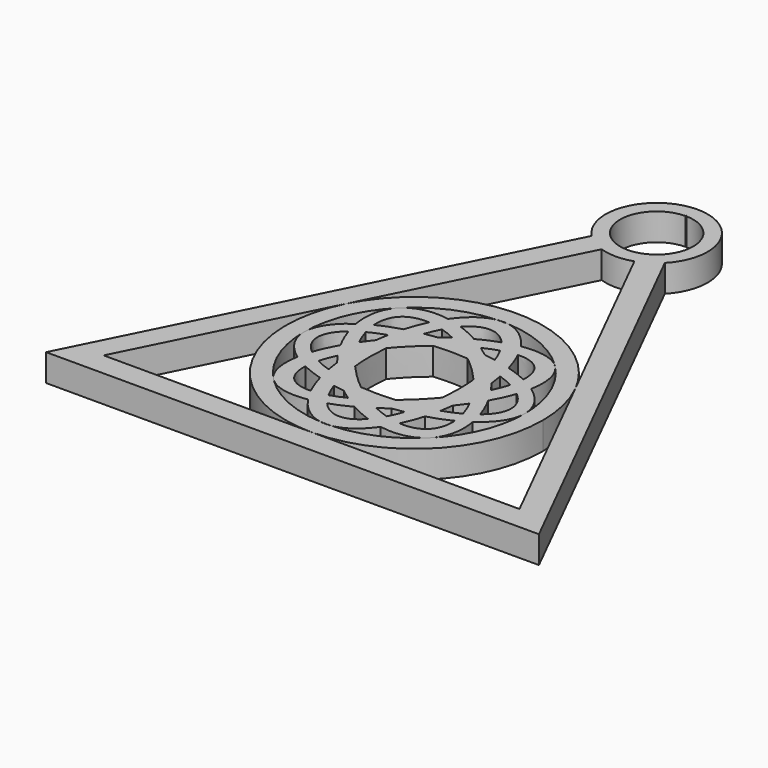
from build123d import *

# Parameters (mm, degrees)
F1_DEPTH = 8


with BuildPart() as f1:
    # F0 (on Top) → F1 (new body)
    with BuildSketch(Plane.XY):
        with BuildLine():
            Line((-72.5, -72.5), (72.5, -72.5))
            Line((72.5, -72.5), (10.7613115327, 50.9773769345))
            ThreePointArc((10.7613115327, 50.9773769345), (0, 76.4269785583), (-10.7613115327, 50.9773769345))
            Line((-10.7613115327, 50.9773769345), (-72.5, -72.5))
        make_face()
        with BuildLine():
            Line((-33.8160232688, -10.7845223802), (-4.8136033975, 47.2203173625))
            ThreePointArc((-4.8136033975, 47.2203173625), (0, 46.4269785583), (4.8136033975, 47.2203173625))
            Line((4.8136033975, 47.2203173625), (28.180019991, 0.4874841754))
            Line((28.180019991, 0.4874841754), (33.8160241852, -10.7845242129))
            Line((33.8160241852, -10.7845242129), (61.1737620788, -65.5))
            Line((61.1737620788, -65.5), (7.24e-08, -65.5))
            Line((7.24e-08, -65.5), (-61.1737620788, -65.5))
            Line((-61.1737620788, -65.5), (-33.8160232688, -10.7845223802))
        make_face(mode=Mode.SUBTRACT)
        with BuildLine():
            Line((-0.1621220008, 72.1757559984), (0, 72.5))
            Line((0, 72.5), (0.1621220008, 72.1757559984))
            ThreePointArc((0.1621220008, 72.1757559984), (7.6585021874, 68.9708399201), (10.75, 61.4269785583))
            ThreePointArc((10.75, 61.4269785583), (-7.5438613618, 53.7684763709), (-0.1621220008, 72.1757559984))
        make_face(mode=Mode.SUBTRACT)
    extrude(amount=F1_DEPTH)


with BuildPart() as f1b:
    # F0 (on Top) → F1, piece 2 (new body)
    with BuildSketch(Plane.XY):
        with BuildLine():
            ThreePointArc((26.7339143042, -0.9586215114), (-6.0560836204, 9.6267380149), (-33.8160232688, -10.7845223802))
            ThreePointArc((-33.8160232688, -10.7845223802), (-32.1609503746, -47.5690953533), (7.24e-08, -65.5))
            ThreePointArc((7.24e-08, -65.5), (26.7339143298, -54.4264500943), (37.8074641844, -27.6925358156))
            ThreePointArc((37.8074641844, -27.6925358156), (36.7960763621, -19.006160714), (33.8160241852, -10.7845242129))
            ThreePointArc((33.8160241852, -10.7845242129), (30.671009989, -5.5861228477), (26.7339143042, -0.9586215114))
        make_face()
        with BuildLine():
            ThreePointArc((23.2992361196, -5.0343011924), (30.1120837363, -15.4650089579), (32.5, -27.6925358156))
            ThreePointArc((32.5, -27.6925358156), (30.0130588161, -40.1611484289), (22.9328430461, -50.7215329675))
            ThreePointArc((22.9328430461, -50.7215329675), (13.131885806, -57.4213698859), (1.5786025435, -60.1541749303))
            add(Edge.make_bspline(
                [(-1.5786025435, -60.1541749303), (0, -60.4204854346), (1.5786025435, -60.1541749303)],
                knots=[3.0512640082, 3.0512640082, 3.0512640082, 3.231921299, 3.231921299, 3.231921299], degree=2, weights=[1, 0.9959231411, 1]))
            ThreePointArc((-1.5786025435, -60.1541749303), (-13.1629755574, -57.4076174153), (-22.9809703886, -50.6735062042))
            ThreePointArc((-22.9809703886, -50.6735062042), (-23.1406660548, -50.5126930136), (-23.299236431, -50.3507701186))
            ThreePointArc((-23.299236431, -50.3507701186), (-30.1120838522, -39.9200623881), (-32.5, -27.6925356466))
            ThreePointArc((-32.5, -27.6925356466), (-30.0130588954, -15.2239233932), (-22.9328434588, -4.6635390747))
            ThreePointArc((-22.9328434588, -4.6635390747), (-13.1318860724, 2.036298137), (-1.5786025435, 4.769103299))
            add(Edge.make_bspline(
                [(1.5786025435, 4.769103299), (0, 5.0354138033), (-1.5786025435, 4.769103299)],
                knots=[6.1928566618, 6.1928566618, 6.1928566618, 6.3735139526, 6.3735139526, 6.3735139526], degree=2, weights=[1, 0.9959231411, 1]))
            ThreePointArc((1.5786025435, 4.769103299), (13.1629755574, 2.022545784), (22.9809703886, -4.7115654271))
            ThreePointArc((22.9809703886, -4.7115654271), (23.140665898, -4.8723784587), (23.2992361196, -5.0343011924))
        make_face(mode=Mode.SUBTRACT)
    extrude(amount=F1_DEPTH)


with BuildPart() as f1c:
    # F0 (on Top) → F1, piece 3 (new body)
    with BuildSketch(Plane.XY):
        with BuildLine():
            add(Edge.make_bspline(
                [(25.7316529946, -38.3824828916), (32.5, -33.6587631525), (32.5, -27.6925358156)],
                knots=[5.6260463822, 5.6260463822, 5.6260463822, 6.2831853072, 6.2831853072, 6.2831853072], degree=2, weights=[1, 0.9465049311, 1]))
            add(Edge.make_bspline(
                [(32.5, -27.6925358156), (32.5, -21.8335775834), (25.9485362003, -17.155688667)],
                knots=[0, 0, 0, 0.6461356538, 0.6461356538, 0.6461356538], degree=2, weights=[1, 0.9482659169, 1]))
            add(Edge.make_bspline(
                [(25.9485362003, -17.155688667), (27.3839638028, -9.2345858445), (23.2992361196, -5.0343011924)],
                knots=[5.6370496533, 5.6370496533, 5.6370496533, 6.2831853058, 6.2831853058, 6.2831853058], degree=2, weights=[1, 0.9482659172, 1]))
            add(Edge.make_bspline(
                [(23.2992361196, -5.0343011924), (23.1412473682, -4.8718429383), (22.9754990985, -4.7170367171)],
                knots=[6.2831853058, 6.2831853058, 6.2831853058, 6.3090824057, 6.3090824057, 6.3090824057], degree=2, weights=[1, 0.9999161687, 1]))
            add(Edge.make_bspline(
                [(22.9754990985, -4.7170367171), (18.7521863759, -0.7725304805), (10.846723925, -2.1139940151)],
                knots=[0.0258970985, 0.0258970985, 0.0258970985, 0.6633041146, 0.6633041146, 0.6633041146], degree=2, weights=[1, 0.9496424532, 1]))
            add(Edge.make_bspline(
                [(10.846723925, -2.1139940151), (6.7622254546, 3.8946252758), (1.5786025435, 4.769103299)],
                knots=[5.6146811793, 5.6146811793, 5.6146811793, 6.1928566618, 6.1928566618, 6.1928566618], degree=2, weights=[1, 0.9585043392, 1]))
            ThreePointArc((1.5786025435, 4.769103299), (0, 4.8074641844), (-1.5786025435, 4.769103299))
            add(Edge.make_bspline(
                [(-1.5786025435, 4.769103299), (-6.6593333052, 3.9119831981), (-10.6968750279, -1.8960060522)],
                knots=[0.0903286454, 0.0903286454, 0.0903286454, 0.6576390359, 0.6576390359, 0.6576390359], degree=2, weights=[1, 0.9600388866, 1]))
            add(Edge.make_bspline(
                [(-10.6968750279, -1.8960060522), (-18.7385874663, -0.4867951742), (-22.9328434588, -4.6635390747)],
                knots=[5.6308648753, 5.6308648753, 5.6308648753, 6.2831853291, 6.2831853291, 6.2831853291], degree=2, weights=[1, 0.947279618, 1]))
            add(Edge.make_bspline(
                [(-22.9328434588, -4.6635390747), (-27.1604194894, -8.8734638936), (-25.7316529946, -17.0025887397)],
                knots=[2.2e-08, 2.2e-08, 2.2e-08, 0.657138925, 0.657138925, 0.657138925], degree=2, weights=[1, 0.9465049346, 1]))
            add(Edge.make_bspline(
                [(-25.7316529946, -17.0025887397), (-32.499999893, -21.7263084041), (-32.5, -27.6925356466)],
                knots=[2.4844537286, 2.4844537286, 2.4844537286, 3.1415926439, 3.1415926439, 3.1415926439], degree=2, weights=[1, 0.9465049326, 1]))
            add(Edge.make_bspline(
                [(-32.5, -27.6925356466), (-32.5000001051, -33.5514939728), (-25.9485362003, -38.2293829643)],
                knots=[3.1415926439, 3.1415926439, 3.1415926439, 3.7877283074, 3.7877283074, 3.7877283074], degree=2, weights=[1, 0.9482659154, 1]))
            add(Edge.make_bspline(
                [(-25.9485362003, -38.2293829643), (-27.3839637419, -46.150485451), (-23.299236431, -50.3507701186)],
                knots=[2.4954569998, 2.4954569998, 2.4954569998, 3.1415926266, 3.1415926266, 3.1415926266], degree=2, weights=[1, 0.9482659212, 1]))
            add(Edge.make_bspline(
                [(-23.299236431, -50.3507701186), (-23.1412475316, -50.5132285403), (-22.9754990985, -50.6680349141)],
                knots=[3.1415926266, 3.1415926266, 3.1415926266, 3.1674897521, 3.1674897521, 3.1674897521], degree=2, weights=[1, 0.9999161685, 1]))
            add(Edge.make_bspline(
                [(-22.9754990985, -50.6680349141), (-18.7521863759, -54.6125411508), (-10.846723925, -53.2710776162)],
                knots=[3.1674897521, 3.1674897521, 3.1674897521, 3.8048967682, 3.8048967682, 3.8048967682], degree=2, weights=[1, 0.9496424532, 1]))
            add(Edge.make_bspline(
                [(-10.846723925, -53.2710776162), (-6.7622254546, -59.2796969071), (-1.5786025435, -60.1541749303)],
                knots=[2.4730885257, 2.4730885257, 2.4730885257, 3.0512640082, 3.0512640082, 3.0512640082], degree=2, weights=[1, 0.9585043392, 1]))
            ThreePointArc((-1.5786025435, -60.1541749303), (0, -60.1925358156), (1.5786025435, -60.1541749303))
            add(Edge.make_bspline(
                [(1.5786025435, -60.1541749303), (6.6593333052, -59.2970548294), (10.6968750279, -53.489065579)],
                knots=[3.231921299, 3.231921299, 3.231921299, 3.7992316895, 3.7992316895, 3.7992316895], degree=2, weights=[1, 0.9600388866, 1]))
            add(Edge.make_bspline(
                [(10.6968750279, -53.489065579), (18.7385870255, -54.8982763798), (22.9328430461, -50.7215329675)],
                knots=[2.4892722218, 2.4892722218, 2.4892722218, 3.1415926423, 3.1415926423, 3.1415926423], degree=2, weights=[1, 0.9472796234, 1]))
            add(Edge.make_bspline(
                [(22.9328430461, -50.7215329675), (27.1604195672, -46.5116081805), (25.7316529946, -38.3824828916)],
                knots=[3.1415926423, 3.1415926423, 3.1415926423, 3.7987315786, 3.7987315786, 3.7987315786], degree=2, weights=[1, 0.9465049292, 1]))
        make_face()
        with BuildLine():
            add(Edge.make_bspline(
                [(-21.6027901563, -40.7669481121), (-18.7653728869, -42.1262635647), (-15.4223542963, -43.0966865684)],
                knots=[3.9852951274, 3.9852951274, 3.9852951274, 4.2179544516, 4.2179544516, 4.2179544516], degree=2, weights=[1, 0.9932413319, 1]))
            add(Edge.make_bspline(
                [(-15.4223542963, -43.0966865684), (-14.4210540704, -46.5743726378), (-13.0031016315, -49.5065258314)],
                knots=[2.0630343284, 2.0630343284, 2.0630343284, 2.3039996573, 2.3039996573, 2.3039996573], degree=2, weights=[1, 0.9927507394, 1]))
            add(Edge.make_bspline(
                [(-21.6027901563, -40.7669481121), (-22.078385873, -49.9511619901), (-13.0031016315, -49.5065258314)],
                knots=[2.6504330757, 2.6504330757, 2.6504330757, 3.6178718332, 3.6178718332, 3.6178718332], degree=2, weights=[1, 0.8852712598, 1]))
        make_face(mode=Mode.SUBTRACT)
        with BuildLine():
            add(Edge.make_bspline(
                [(-6.1747332901, -52.0595163698), (-3.2169473908, -51.0440178784), (-0.174178297, -49.4116353343)],
                knots=[3.9930130778, 3.9930130778, 3.9930130778, 4.2233800873, 4.2233800873, 4.2233800873], degree=2, weights=[1, 0.993373711, 1]))
            add(Edge.make_bspline(
                [(-0.174178297, -49.4116353343), (2.9634033448, -51.1602576437), (6.0163636903, -52.2387487525)],
                knots=[2.0598052199, 2.0598052199, 2.0598052199, 2.2993564253, 2.2993564253, 2.2993564253], degree=2, weights=[1, 0.992835474, 1]))
            add(Edge.make_bspline(
                [(-6.1747332901, -52.0595163698), (-0.1015206893, -59.0476767308), (6.0163636903, -52.2387487525)],
                knots=[2.64647222, 2.64647222, 2.64647222, 3.6229145562, 3.6229145562, 3.6229145562], degree=2, weights=[1, 0.8831686266, 1]))
        make_face(mode=Mode.SUBTRACT)
        with BuildLine():
            add(Edge.make_bspline(
                [(-24.7094925643, -21.0167377673), (-32.6980978194, -27.5897764724), (-24.896043206, -34.2124400165)],
                knots=[5.762838051, 5.762838051, 5.762838051, 6.7902017975, 6.7902017975, 6.7902017975], degree=2, weights=[1, 0.8709411894, 1]))
            add(Edge.make_bspline(
                [(-24.7094925643, -21.0167377673), (-23.6579133908, -24.2121751201), (-21.861290989, -27.5172172012)],
                knots=[0.8202593312, 0.8202593312, 0.8202593312, 1.0718901897, 1.0718901897, 1.0718901897], degree=2, weights=[1, 0.992095674, 1]))
            add(Edge.make_bspline(
                [(-21.861290989, -27.5172172012), (-23.7821383192, -30.9195763344), (-24.896043206, -34.2124400165)],
                knots=[2.0697024639, 2.0697024639, 2.0697024639, 2.3309465861, 2.3309465861, 2.3309465861], degree=2, weights=[1, 0.9914810615, 1]))
        make_face(mode=Mode.SUBTRACT)
        with BuildLine():
            add(Edge.make_bspline(
                [(-12.7475379475, -15.6855068512), (-15.0576939462, -17.9900104758), (-17.0671826994, -20.4882510416)],
                knots=[1.5944196522, 1.5944196522, 1.5944196522, 1.7945920258, 1.7945920258, 1.7945920258], degree=2, weights=[1, 0.9949955573, 1]))
            add(Edge.make_bspline(
                [(-17.0671826994, -20.4882510416), (-18.3337433657, -22.0628670878), (-19.4539916966, -23.6824106734)],
                knots=[1.7945920258, 1.7945920258, 1.7945920258, 1.9210130028, 1.9210130028, 1.9210130028], degree=2, weights=[1, 0.9980028822, 1]))
            add(Edge.make_bspline(
                [(-21.3973497517, -18.8317302296), (-20.7072358148, -21.1683584374), (-19.4539916966, -23.6824106734)],
                knots=[3.8403707884, 3.8403707884, 3.8403707884, 4.0741185679, 4.0741185679, 4.0741185679], degree=2, weights=[1, 0.9931780177, 1]))
            add(Edge.make_bspline(
                [(-16.4829754473, -16.7428163499), (-19.1992598387, -17.6517714872), (-21.3973497517, -18.8317302296)],
                knots=[5.3296226776, 5.3296226776, 5.3296226776, 5.5624858597, 5.5624858597, 5.5624858597], degree=2, weights=[1, 0.9932294961, 1]))
            add(Edge.make_bspline(
                [(-12.7475379475, -15.6855068512), (-14.7012774499, -16.1466035407), (-16.4829754473, -16.7428163499)],
                knots=[5.1764862484, 5.1764862484, 5.1764862484, 5.3296226776, 5.3296226776, 5.3296226776], degree=2, weights=[1, 0.9970700861, 1]))
        make_face(mode=Mode.SUBTRACT)
        with BuildLine():
            add(Edge.make_bspline(
                [(-13.035383684, -5.9454867346), (-14.4326351131, -8.8509219254), (-15.4223542963, -12.2883850629)],
                knots=[0.8403535691, 0.8403535691, 0.8403535691, 1.0785583252, 1.0785583252, 1.0785583252], degree=2, weights=[1, 0.9929156922, 1]))
            add(Edge.make_bspline(
                [(-15.4223542963, -12.2883850629), (-19.0971003016, -13.3551030483), (-22.1518651708, -14.887281115)],
                knots=[2.0652308555, 2.0652308555, 2.0652308555, 2.3207376851, 2.3207376851, 2.3207376851], degree=2, weights=[1, 0.9918506253, 1]))
            add(Edge.make_bspline(
                [(-13.035383684, -5.9454867346), (-22.8635054091, -5.2415966226), (-22.1518651708, -14.887281115)],
                knots=[2.6293836742, 2.6293836742, 2.6293836742, 3.630914254, 3.630914254, 3.630914254], degree=2, weights=[1, 0.8772154054, 1]))
        make_face(mode=Mode.SUBTRACT)
        with BuildLine():
            add(Edge.make_bspline(
                [(-6.942164638, -10.5964341186), (-8.7026091875, -10.803700823), (-10.4097072013, -11.1144951959)],
                knots=[1.7860600434, 1.7860600434, 1.7860600434, 1.8968410912, 1.8968410912, 1.8968410912], degree=2, weights=[1, 0.9984663371, 1]))
            add(Edge.make_bspline(
                [(-8.5447555745, -6.8276556947), (-9.5839905315, -8.7601818844), (-10.4097072013, -11.1144951959)],
                knots=[0.7175061476, 0.7175061476, 0.7175061476, 0.9289859777, 0.9289859777, 0.9289859777], degree=2, weights=[1, 0.9944147421, 1]))
            add(Edge.make_bspline(
                [(-4.1282828124, -8.5726407884), (-6.4056548938, -7.4820178022), (-8.5447555745, -6.8276556947)],
                knots=[2.188619456, 2.188619456, 2.188619456, 2.3967729655, 2.3967729655, 2.3967729655], degree=2, weights=[1, 0.9945889016, 1]))
            add(Edge.make_bspline(
                [(-4.1282828124, -8.5726407884), (-5.551850287, -9.5301451167), (-6.942164638, -10.5964341186)],
                knots=[1.2460287686, 1.2460287686, 1.2460287686, 1.3555326102, 1.3555326102, 1.3555326102], degree=2, weights=[1, 0.998501488, 1]))
        make_face(mode=Mode.SUBTRACT)
        with BuildLine():
            add(Edge.make_bspline(
                [(13.035383684, -49.4395848967), (14.4326351131, -46.5341497059), (15.4223542963, -43.0966865684)],
                knots=[3.9819462227, 3.9819462227, 3.9819462227, 4.2201509788, 4.2201509788, 4.2201509788], degree=2, weights=[1, 0.9929156922, 1]))
            add(Edge.make_bspline(
                [(15.4223542963, -43.0966865684), (19.0971003016, -42.0299685829), (22.1518651708, -40.4977905163)],
                knots=[5.2068235091, 5.2068235091, 5.2068235091, 5.4623303387, 5.4623303387, 5.4623303387], degree=2, weights=[1, 0.9918506253, 1]))
            add(Edge.make_bspline(
                [(13.035383684, -49.4395848967), (22.8635054091, -50.1434750087), (22.1518651708, -40.4977905163)],
                knots=[5.7709763278, 5.7709763278, 5.7709763278, 6.7725069076, 6.7725069076, 6.7725069076], degree=2, weights=[1, 0.8772154054, 1]))
        make_face(mode=Mode.SUBTRACT)
        with BuildLine():
            add(Edge.make_bspline(
                [(4.1282828124, -46.8124308429), (6.4056548938, -47.9030538291), (8.5447555745, -48.5574159365)],
                knots=[5.3302121096, 5.3302121096, 5.3302121096, 5.5383656191, 5.5383656191, 5.5383656191], degree=2, weights=[1, 0.9945889016, 1]))
            add(Edge.make_bspline(
                [(4.1282828124, -46.8124308429), (5.551850287, -45.8549265146), (6.942164638, -44.7886375127)],
                knots=[4.3876214222, 4.3876214222, 4.3876214222, 4.4971252638, 4.4971252638, 4.4971252638], degree=2, weights=[1, 0.998501488, 1]))
            add(Edge.make_bspline(
                [(-7.0948433333, -44.7704544813), (-0.0800736954, -45.6154037959), (6.942164638, -44.7886375127)],
                knots=[4.492313922, 4.492313922, 4.492313922, 4.927652697, 4.927652697, 4.927652697], degree=2, weights=[1, 0.9764034071, 1]))
            add(Edge.make_bspline(
                [(-7.0948433333, -44.7704544813), (-5.6393240257, -45.9179556643), (-4.1459652282, -46.9431654895)],
                knots=[1.7908713852, 1.7908713852, 1.7908713852, 1.9067804096, 1.9067804096, 1.9067804096], degree=2, weights=[1, 0.9983211072, 1]))
            add(Edge.make_bspline(
                [(-8.4848190841, -48.668186869), (-6.3857478816, -48.0297437505), (-4.1459652282, -46.9431654895)],
                knots=[3.8598496465, 3.8598496465, 3.8598496465, 4.0701667334, 4.0701667334, 4.0701667334], degree=2, weights=[1, 0.9944759338, 1]))
            add(Edge.make_bspline(
                [(-10.4097072013, -44.2705764353), (-9.5599672164, -46.6933858939), (-8.4848190841, -48.668186869)],
                knots=[2.2126066759, 2.2126066759, 2.2126066759, 2.4301915206, 2.4301915206, 2.4301915206], degree=2, weights=[1, 0.994087939, 1]))
            add(Edge.make_bspline(
                [(-15.4223542963, -43.0966865684), (-13.0080240641, -43.7975267021), (-10.4097072013, -44.2705764353)],
                knots=[4.2179544516, 4.2179544516, 4.2179544516, 4.386344216, 4.386344216, 4.386344216], degree=2, weights=[1, 0.9964577042, 1]))
            add(Edge.make_bspline(
                [(-16.4829754473, -38.6422552813), (-16.0422999804, -40.9435097152), (-15.4223542963, -43.0966865684)],
                knots=[1.9133966313, 1.9133966313, 1.9133966313, 2.0630343284, 2.0630343284, 2.0630343284], degree=2, weights=[1, 0.9972023754, 1]))
            add(Edge.make_bspline(
                [(-20.9293951992, -36.7984086892), (-18.9105800818, -37.829901571), (-16.4829754473, -38.6422552813)],
                knots=[0.7452584851, 0.7452584851, 0.7452584851, 0.9535626296, 0.9535626296, 0.9535626296], degree=2, weights=[1, 0.9945810741, 1]))
            add(Edge.make_bspline(
                [(-19.1152104224, -31.9809929896), (-20.2954433378, -34.4810623177), (-20.9293951992, -36.7984086892)],
                knots=[2.2060259231, 2.2060259231, 2.2060259231, 2.4385686588, 2.4385686588, 2.4385686588], degree=2, weights=[1, 0.9932480963, 1]))
            add(Edge.make_bspline(
                [(-19.1152104224, -31.9809929896), (-18.1536505061, -33.3790834852), (-17.085592763, -34.7438140256)],
                knots=[1.2434602873, 1.2434602873, 1.2434602873, 1.3518319979, 1.3518319979, 1.3518319979], degree=2, weights=[1, 0.9985323057, 1]))
            add(Edge.make_bspline(
                [(-17.085592763, -34.7438140256), (-15.0667740765, -37.3233969507), (-12.7345278877, -39.7026332896)],
                knots=[1.3518319979, 1.3518319979, 1.3518319979, 1.5561606022, 1.5561606022, 1.5561606022], degree=2, weights=[1, 0.9947857654, 1]))
            add(Edge.make_bspline(
                [(-12.7345278877, -39.7026332896), (-12.1999835257, -39.8286286814), (-11.6546990947, -39.9439402494)],
                knots=[1.1072098643, 1.1072098643, 1.1072098643, 1.1491732746, 1.1491732746, 1.1491732746], degree=2, weights=[1, 0.9997798921, 1]))
            add(Edge.make_bspline(
                [(-12.696375778, -33.6015465394), (-12.357436462, -36.9083990827), (-11.6546990947, -39.9439402494)],
                knots=[1.785828832, 1.785828832, 1.785828832, 2.0290784918, 2.0290784918, 2.0290784918], degree=2, weights=[1, 0.9926128134, 1]))
            add(Edge.make_bspline(
                [(-12.7318091572, -22.1404947886), (-13.282913569, -27.8790059723), (-12.696375778, -33.6015465394)],
                knots=[1.368939584, 1.368939584, 1.368939584, 1.785828832, 1.785828832, 1.785828832], degree=2, weights=[1, 0.9783539651, 1]))
            add(Edge.make_bspline(
                [(-5.0702480943, -14.4797642088), (-9.2536228701, -17.9384665589), (-12.7318091572, -22.1404947886)],
                knots=[1.3582204444, 1.3582204444, 1.3582204444, 1.7511449218, 1.7511449218, 1.7511449218], degree=2, weights=[1, 0.9807632879, 1]))
            add(Edge.make_bspline(
                [(5.1099000615, -14.4831603468), (0.02048023, -14.0455042422), (-5.0702480943, -14.4797642088)],
                knots=[4.5319834821, 4.5319834821, 4.5319834821, 4.8913793568, 4.8913793568, 4.8913793568], degree=2, weights=[1, 0.983897726, 1]))
            add(Edge.make_bspline(
                [(11.6546990947, -15.4411313819), (8.5054247913, -14.7751527891), (5.1099000615, -14.4831603468)],
                knots=[4.2907659282, 4.2907659282, 4.2907659282, 4.5319834821, 4.5319834821, 4.5319834821], degree=2, weights=[1, 0.9927355739, 1]))
            add(Edge.make_bspline(
                [(12.7345278877, -15.6824383417), (12.1999835257, -15.5564429499), (11.6546990947, -15.4411313819)],
                knots=[4.2488025178, 4.2488025178, 4.2488025178, 4.2907659282, 4.2907659282, 4.2907659282], degree=2, weights=[1, 0.9997798921, 1]))
            add(Edge.make_bspline(
                [(17.085592763, -20.6412576056), (15.0667740765, -18.0616746806), (12.7345278877, -15.6824383417)],
                knots=[4.4934246515, 4.4934246515, 4.4934246515, 4.6977532557, 4.6977532557, 4.6977532557], degree=2, weights=[1, 0.9947857654, 1]))
            add(Edge.make_bspline(
                [(17.0671826994, -34.8968205896), (17.934017016, -27.7728813303), (17.085592763, -20.6412576056)],
                knots=[4.4895211106, 4.4895211106, 4.4895211106, 4.9304461682, 4.9304461682, 4.9304461682], degree=2, weights=[1, 0.9757964075, 1]))
            add(Edge.make_bspline(
                [(17.0671826994, -34.8968205896), (18.3337433657, -33.3222045435), (19.4539916966, -31.7026609579)],
                knots=[4.9361846794, 4.9361846794, 4.9361846794, 5.0626056564, 5.0626056564, 5.0626056564], degree=2, weights=[1, 0.9980028822, 1]))
            add(Edge.make_bspline(
                [(21.3973497517, -36.5533414017), (20.7072358148, -34.2167131939), (19.4539916966, -31.7026609579)],
                knots=[0.6987781349, 0.6987781349, 0.6987781349, 0.9325259143, 0.9325259143, 0.9325259143], degree=2, weights=[1, 0.9931780177, 1]))
            add(Edge.make_bspline(
                [(16.4829754473, -38.6422552813), (19.1992598387, -37.7333001441), (21.3973497517, -36.5533414017)],
                knots=[2.188030024, 2.188030024, 2.188030024, 2.4208932061, 2.4208932061, 2.4208932061], degree=2, weights=[1, 0.9932294961, 1]))
            add(Edge.make_bspline(
                [(15.4223542963, -43.0966865684), (16.0422999804, -40.9435097152), (16.4829754473, -38.6422552813)],
                knots=[4.2201509788, 4.2201509788, 4.2201509788, 4.3697886759, 4.3697886759, 4.3697886759], degree=2, weights=[1, 0.9972023754, 1]))
            add(Edge.make_bspline(
                [(10.4097072013, -44.2705764353), (13.0080240641, -43.7975267021), (15.4223542963, -43.0966865684)],
                knots=[5.0384337447, 5.0384337447, 5.0384337447, 5.2068235091, 5.2068235091, 5.2068235091], degree=2, weights=[1, 0.9964577042, 1]))
            add(Edge.make_bspline(
                [(8.5447555745, -48.5574159365), (9.5839905315, -46.6248897469), (10.4097072013, -44.2705764353)],
                knots=[3.8590988012, 3.8590988012, 3.8590988012, 4.0705786313, 4.0705786313, 4.0705786313], degree=2, weights=[1, 0.9944147421, 1]))
        make_face(mode=Mode.SUBTRACT)
        with BuildLine():
            add(Edge.make_bspline(
                [(24.7094925643, -34.368333864), (23.6579133908, -31.1728965111), (21.861290989, -27.86785443)],
                knots=[3.9618519848, 3.9618519848, 3.9618519848, 4.2134828433, 4.2134828433, 4.2134828433], degree=2, weights=[1, 0.992095674, 1]))
            add(Edge.make_bspline(
                [(21.861290989, -27.86785443), (23.7821383192, -24.4654952969), (24.896043206, -21.1726316148)],
                knots=[5.2112951175, 5.2112951175, 5.2112951175, 5.4725392397, 5.4725392397, 5.4725392397], degree=2, weights=[1, 0.9914810615, 1]))
            add(Edge.make_bspline(
                [(24.7094925643, -34.368333864), (32.6980978194, -27.7952951588), (24.896043206, -21.1726316148)],
                knots=[2.6212453974, 2.6212453974, 2.6212453974, 3.6486091439, 3.6486091439, 3.6486091439], degree=2, weights=[1, 0.8709411894, 1]))
        make_face(mode=Mode.SUBTRACT)
        with BuildLine():
            add(Edge.make_bspline(
                [(19.1152104224, -23.4040786417), (18.1536505061, -22.005988146), (17.085592763, -20.6412576056)],
                knots=[4.3850529409, 4.3850529409, 4.3850529409, 4.4934246515, 4.4934246515, 4.4934246515], degree=2, weights=[1, 0.9985323057, 1]))
            add(Edge.make_bspline(
                [(17.085592763, -20.6412576056), (16.8495379385, -18.6570448955), (16.4829754473, -16.7428163499)],
                knots=[4.9304461682, 4.9304461682, 4.9304461682, 5.0549892848, 5.0549892848, 5.0549892848], degree=2, weights=[1, 0.998061753, 1]))
            add(Edge.make_bspline(
                [(20.9293951992, -18.5866629421), (18.9105800818, -17.5551700603), (16.4829754473, -16.7428163499)],
                knots=[3.8868511386, 3.8868511386, 3.8868511386, 4.0951552832, 4.0951552832, 4.0951552832], degree=2, weights=[1, 0.9945810741, 1]))
            add(Edge.make_bspline(
                [(19.1152104224, -23.4040786417), (20.2954433378, -20.9040093136), (20.9293951992, -18.5866629421)],
                knots=[5.3476185766, 5.3476185766, 5.3476185766, 5.5801613124, 5.5801613124, 5.5801613124], degree=2, weights=[1, 0.9932480963, 1]))
        make_face(mode=Mode.SUBTRACT)
        with BuildLine():
            add(Edge.make_bspline(
                [(10.4097072013, -11.1144951959), (8.7768924184, -10.8172248327), (7.0948433333, -10.61461715)],
                knots=[1.2447515624, 1.2447515624, 1.2447515624, 1.3507212684, 1.3507212684, 1.3507212684], degree=2, weights=[1, 0.998596631, 1]))
            add(Edge.make_bspline(
                [(7.0948433333, -10.61461715), (5.6393240257, -9.467115967), (4.1459652282, -8.4419061418)],
                knots=[4.9324640388, 4.9324640388, 4.9324640388, 5.0483730632, 5.0483730632, 5.0483730632], degree=2, weights=[1, 0.9983211072, 1]))
            add(Edge.make_bspline(
                [(8.4848190841, -6.7168847623), (6.3857478816, -7.3553278807), (4.1459652282, -8.4419061418)],
                knots=[0.718256993, 0.718256993, 0.718256993, 0.9285740798, 0.9285740798, 0.9285740798], degree=2, weights=[1, 0.9944759338, 1]))
            add(Edge.make_bspline(
                [(10.4097072013, -11.1144951959), (9.5599672164, -8.6916857374), (8.4848190841, -6.7168847623)],
                knots=[5.3541993295, 5.3541993295, 5.3541993295, 5.5717841742, 5.5717841742, 5.5717841742], degree=2, weights=[1, 0.994087939, 1]))
        make_face(mode=Mode.SUBTRACT)
        with BuildLine():
            add(Edge.make_bspline(
                [(21.6027901563, -14.6181235192), (22.078385873, -5.4339096411), (13.0031016315, -5.8785457999)],
                knots=[5.7920257293, 5.7920257293, 5.7920257293, 6.7594644868, 6.7594644868, 6.7594644868], degree=2, weights=[1, 0.8852712598, 1]))
            add(Edge.make_bspline(
                [(21.6027901563, -14.6181235192), (18.7653728869, -13.2588080665), (15.4223542963, -12.2883850629)],
                knots=[0.8437024738, 0.8437024738, 0.8437024738, 1.076361798, 1.076361798, 1.076361798], degree=2, weights=[1, 0.9932413319, 1]))
            add(Edge.make_bspline(
                [(15.4223542963, -12.2883850629), (14.4210540704, -8.8106989935), (13.0031016315, -5.8785457999)],
                knots=[5.204626982, 5.204626982, 5.204626982, 5.4455923109, 5.4455923109, 5.4455923109], degree=2, weights=[1, 0.9927507394, 1]))
        make_face(mode=Mode.SUBTRACT)
        with BuildLine():
            add(Edge.make_bspline(
                [(6.1747332901, -3.3255552615), (3.2169473908, -4.3410537529), (0.174178297, -5.973436297)],
                knots=[0.8514204242, 0.8514204242, 0.8514204242, 1.0817874337, 1.0817874337, 1.0817874337], degree=2, weights=[1, 0.993373711, 1]))
            add(Edge.make_bspline(
                [(0.174178297, -5.973436297), (-2.9634033448, -4.2248139876), (-6.0163636903, -3.1463228788)],
                knots=[5.2013978735, 5.2013978735, 5.2013978735, 5.4409490789, 5.4409490789, 5.4409490789], degree=2, weights=[1, 0.992835474, 1]))
            add(Edge.make_bspline(
                [(6.1747332901, -3.3255552615), (0.1015206893, 3.6626050995), (-6.0163636903, -3.1463228788)],
                knots=[5.7880648736, 5.7880648736, 5.7880648736, 6.7645072098, 6.7645072098, 6.7645072098], degree=2, weights=[1, 0.8831686266, 1]))
        make_face(mode=Mode.SUBTRACT)
        with BuildLine():
            add(Edge.make_bspline(
                [(-15.4223542963, -43.0966865684), (-13.0080240641, -43.7975267021), (-10.4097072013, -44.2705764353)],
                knots=[4.2179544516, 4.2179544516, 4.2179544516, 4.386344216, 4.386344216, 4.386344216], degree=2, weights=[1, 0.9964577042, 1]))
            add(Edge.make_bspline(
                [(-11.3881439473, -41.0337153708), (-10.9518524853, -42.724792142), (-10.4097072013, -44.2705764353)],
                knots=[2.0734593386, 2.0734593386, 2.0734593386, 2.2126066759, 2.2126066759, 2.2126066759], degree=2, weights=[1, 0.9975807284, 1]))
            add(Edge.make_bspline(
                [(-12.7345278877, -39.7026332896), (-12.0715790859, -40.3789391991), (-11.3881439473, -41.0337153708)],
                knots=[1.5561606022, 1.5561606022, 1.5561606022, 1.6144281242, 1.6144281242, 1.6144281242], degree=2, weights=[1, 0.999575642, 1]))
            add(Edge.make_bspline(
                [(-16.4829754473, -38.6422552813), (-14.6953109674, -39.2404646654), (-12.7345278877, -39.7026332896)],
                knots=[0.9535626296, 0.9535626296, 0.9535626296, 1.1072098643, 1.1072098643, 1.1072098643], degree=2, weights=[1, 0.997050517, 1]))
            add(Edge.make_bspline(
                [(-16.4829754473, -38.6422552813), (-16.0422999804, -40.9435097152), (-15.4223542963, -43.0966865684)],
                knots=[1.9133966313, 1.9133966313, 1.9133966313, 2.0630343284, 2.0630343284, 2.0630343284], degree=2, weights=[1, 0.9972023754, 1]))
        make_face()
        with BuildLine():
            add(Edge.make_bspline(
                [(-12.696375778, -33.6015465394), (-12.357436462, -36.9083990827), (-11.6546990947, -39.9439402494)],
                knots=[1.785828832, 1.785828832, 1.785828832, 2.0290784918, 2.0290784918, 2.0290784918], degree=2, weights=[1, 0.9926128134, 1]))
            add(Edge.make_bspline(
                [(-11.6546990947, -39.9439402494), (-8.5054247913, -40.6099188422), (-5.1099000615, -40.9019112845)],
                knots=[1.1491732746, 1.1491732746, 1.1491732746, 1.3903908285, 1.3903908285, 1.3903908285], degree=2, weights=[1, 0.9927355739, 1]))
            add(Edge.make_bspline(
                [(-12.696375778, -33.6015465394), (-9.2267475278, -37.599184692), (-5.1099000615, -40.9019112845)],
                knots=[4.533934009, 4.533934009, 4.533934009, 4.9107144429, 4.9107144429, 4.9107144429], degree=2, weights=[1, 0.9823069845, 1]))
        make_face()
        with BuildLine():
            add(Edge.make_bspline(
                [(-7.0948433333, -44.7704544813), (-0.0800736954, -45.6154037959), (6.942164638, -44.7886375127)],
                knots=[4.492313922, 4.492313922, 4.492313922, 4.927652697, 4.927652697, 4.927652697], degree=2, weights=[1, 0.9764034071, 1]))
            add(Edge.make_bspline(
                [(6.942164638, -44.7886375127), (9.2440303911, -43.0232424173), (11.3949119996, -41.0074485756)],
                knots=[4.4971252638, 4.4971252638, 4.4971252638, 4.6781103885, 4.6781103885, 4.6781103885], degree=2, weights=[1, 0.9959083414, 1]))
            add(Edge.make_bspline(
                [(11.3949119996, -41.0074485756), (11.5302088623, -40.4816876966), (11.6546990947, -39.9439402494)],
                knots=[4.2108080529, 4.2108080529, 4.2108080529, 4.2541068154, 4.2541068154, 4.2541068154], degree=2, weights=[1, 0.9997656613, 1]))
            add(Edge.make_bspline(
                [(5.0702480943, -40.9053074224), (8.4867673284, -40.6138643451), (11.6546990947, -39.9439402494)],
                knots=[1.7497867032, 1.7497867032, 1.7497867032, 1.992419379, 1.992419379, 1.992419379], degree=2, weights=[1, 0.992650194, 1]))
            add(Edge.make_bspline(
                [(0.0601434623, -44.5735143785), (2.6006092802, -42.9471387255), (5.0702480943, -40.9053074224)],
                knots=[4.2658930216, 4.2658930216, 4.2658930216, 4.499813098, 4.499813098, 4.499813098], degree=2, weights=[1, 0.9931679684, 1]))
            add(Edge.make_bspline(
                [(-5.1099000615, -40.9019112845), (-2.5600835204, -42.9474927556), (0.0601434623, -44.5735143785)],
                knots=[4.9107144429, 4.9107144429, 4.9107144429, 5.1457896867, 5.1457896867, 5.1457896867], degree=2, weights=[1, 0.9931004024, 1]))
            add(Edge.make_bspline(
                [(-11.6546990947, -39.9439402494), (-8.5054247913, -40.6099188422), (-5.1099000615, -40.9019112845)],
                knots=[1.1491732746, 1.1491732746, 1.1491732746, 1.3903908285, 1.3903908285, 1.3903908285], degree=2, weights=[1, 0.9927355739, 1]))
            add(Edge.make_bspline(
                [(-11.6546990947, -39.9439402494), (-11.5270967035, -40.4951309639), (-11.3881439473, -41.0337153708)],
                knots=[2.0290784918, 2.0290784918, 2.0290784918, 2.0734593386, 2.0734593386, 2.0734593386], degree=2, weights=[1, 0.9997538027, 1]))
            add(Edge.make_bspline(
                [(-11.3881439473, -41.0337153708), (-9.3137955646, -43.0210786419), (-7.0948433333, -44.7704544813)],
                knots=[1.6144281242, 1.6144281242, 1.6144281242, 1.7908713852, 1.7908713852, 1.7908713852], degree=2, weights=[1, 0.9961109953, 1]))
        make_face()
        with BuildLine():
            add(Edge.make_bspline(
                [(11.6546990947, -39.9439402494), (12.2066230606, -39.8272246156), (12.7475379475, -39.6995647801)],
                knots=[1.992419379, 1.992419379, 1.992419379, 2.0348935948, 2.0348935948, 2.0348935948], degree=2, weights=[1, 0.9997745011, 1]))
            add(Edge.make_bspline(
                [(12.7475379475, -39.6995647801), (15.0576939462, -37.3950611555), (17.0671826994, -34.8968205896)],
                knots=[4.7360123058, 4.7360123058, 4.7360123058, 4.9361846794, 4.9361846794, 4.9361846794], degree=2, weights=[1, 0.9949955573, 1]))
            add(Edge.make_bspline(
                [(17.0671826994, -34.8968205896), (17.934017016, -27.7728813303), (17.085592763, -20.6412576056)],
                knots=[4.4895211106, 4.4895211106, 4.4895211106, 4.9304461682, 4.9304461682, 4.9304461682], degree=2, weights=[1, 0.9757964075, 1]))
            add(Edge.make_bspline(
                [(17.085592763, -20.6412576056), (15.0667740765, -18.0616746806), (12.7345278877, -15.6824383417)],
                knots=[4.4934246515, 4.4934246515, 4.4934246515, 4.6977532557, 4.6977532557, 4.6977532557], degree=2, weights=[1, 0.9947857654, 1]))
            add(Edge.make_bspline(
                [(12.7345278877, -15.6824383417), (12.1999835257, -15.5564429499), (11.6546990947, -15.4411313819)],
                knots=[4.2488025178, 4.2488025178, 4.2488025178, 4.2907659282, 4.2907659282, 4.2907659282], degree=2, weights=[1, 0.9997798921, 1]))
            add(Edge.make_bspline(
                [(12.696375778, -21.7835250918), (12.357436462, -18.4766725486), (11.6546990947, -15.4411313819)],
                knots=[4.9274214856, 4.9274214856, 4.9274214856, 5.1706711453, 5.1706711453, 5.1706711453], degree=2, weights=[1, 0.9926128134, 1]))
            add(Edge.make_bspline(
                [(12.7318091572, -33.2445768427), (13.282913569, -27.506065659), (12.696375778, -21.7835250918)],
                knots=[4.5105322376, 4.5105322376, 4.5105322376, 4.9274214856, 4.9274214856, 4.9274214856], degree=2, weights=[1, 0.9783539651, 1]))
            add(Edge.make_bspline(
                [(11.6546990947, -39.9439402494), (12.3959101723, -36.7422082169), (12.7318091572, -33.2445768427)],
                knots=[4.2541068154, 4.2541068154, 4.2541068154, 4.5105322376, 4.5105322376, 4.5105322376], degree=2, weights=[1, 0.9917920035, 1]))
        make_face()
        with BuildLine():
            add(Edge.make_bspline(
                [(5.0702480943, -40.9053074224), (8.4867673284, -40.6138643451), (11.6546990947, -39.9439402494)],
                knots=[1.7497867032, 1.7497867032, 1.7497867032, 1.992419379, 1.992419379, 1.992419379], degree=2, weights=[1, 0.992650194, 1]))
            add(Edge.make_bspline(
                [(11.6546990947, -39.9439402494), (12.3959101723, -36.7422082169), (12.7318091572, -33.2445768427)],
                knots=[4.2541068154, 4.2541068154, 4.2541068154, 4.5105322376, 4.5105322376, 4.5105322376], degree=2, weights=[1, 0.9917920035, 1]))
            add(Edge.make_bspline(
                [(5.0702480943, -40.9053074224), (9.2536228701, -37.4466050724), (12.7318091572, -33.2445768427)],
                knots=[4.499813098, 4.499813098, 4.499813098, 4.8927375753, 4.8927375753, 4.8927375753], degree=2, weights=[1, 0.9807632879, 1]))
        make_face()
        with BuildLine():
            add(Edge.make_bspline(
                [(11.3949119996, -41.0074485756), (12.0813482235, -40.3641245044), (12.7475379475, -39.6995647801)],
                knots=[4.6781103885, 4.6781103885, 4.6781103885, 4.7360123058, 4.7360123058, 4.7360123058], degree=2, weights=[1, 0.9995809503, 1]))
            add(Edge.make_bspline(
                [(10.4097072013, -44.2705764353), (10.9560822937, -42.712731959), (11.3949119996, -41.0074485756)],
                knots=[4.0705786313, 4.0705786313, 4.0705786313, 4.2108080529, 4.2108080529, 4.2108080529], degree=2, weights=[1, 0.9975429705, 1]))
            add(Edge.make_bspline(
                [(10.4097072013, -44.2705764353), (13.0080240641, -43.7975267021), (15.4223542963, -43.0966865684)],
                knots=[5.0384337447, 5.0384337447, 5.0384337447, 5.2068235091, 5.2068235091, 5.2068235091], degree=2, weights=[1, 0.9964577042, 1]))
            add(Edge.make_bspline(
                [(15.4223542963, -43.0966865684), (16.0422999804, -40.9435097152), (16.4829754473, -38.6422552813)],
                knots=[4.2201509788, 4.2201509788, 4.2201509788, 4.3697886759, 4.3697886759, 4.3697886759], degree=2, weights=[1, 0.9972023754, 1]))
            add(Edge.make_bspline(
                [(12.7475379475, -39.6995647801), (14.7012774499, -39.2384680906), (16.4829754473, -38.6422552813)],
                knots=[2.0348935948, 2.0348935948, 2.0348935948, 2.188030024, 2.188030024, 2.188030024], degree=2, weights=[1, 0.9970700861, 1]))
        make_face()
        with BuildLine():
            add(Edge.make_bspline(
                [(-12.7345278877, -39.7026332896), (-12.0715790859, -40.3789391991), (-11.3881439473, -41.0337153708)],
                knots=[1.5561606022, 1.5561606022, 1.5561606022, 1.6144281242, 1.6144281242, 1.6144281242], degree=2, weights=[1, 0.999575642, 1]))
            add(Edge.make_bspline(
                [(-11.6546990947, -39.9439402494), (-11.5270967035, -40.4951309639), (-11.3881439473, -41.0337153708)],
                knots=[2.0290784918, 2.0290784918, 2.0290784918, 2.0734593386, 2.0734593386, 2.0734593386], degree=2, weights=[1, 0.9997538027, 1]))
            add(Edge.make_bspline(
                [(-12.7345278877, -39.7026332896), (-12.1999835257, -39.8286286814), (-11.6546990947, -39.9439402494)],
                knots=[1.1072098643, 1.1072098643, 1.1072098643, 1.1491732746, 1.1491732746, 1.1491732746], degree=2, weights=[1, 0.9997798921, 1]))
        make_face()
        with BuildLine():
            add(Edge.make_bspline(
                [(11.3949119996, -41.0074485756), (11.5302088623, -40.4816876966), (11.6546990947, -39.9439402494)],
                knots=[4.2108080529, 4.2108080529, 4.2108080529, 4.2541068154, 4.2541068154, 4.2541068154], degree=2, weights=[1, 0.9997656613, 1]))
            add(Edge.make_bspline(
                [(11.3949119996, -41.0074485756), (12.0813482235, -40.3641245044), (12.7475379475, -39.6995647801)],
                knots=[4.6781103885, 4.6781103885, 4.6781103885, 4.7360123058, 4.7360123058, 4.7360123058], degree=2, weights=[1, 0.9995809503, 1]))
            add(Edge.make_bspline(
                [(11.6546990947, -39.9439402494), (12.2066230606, -39.8272246156), (12.7475379475, -39.6995647801)],
                knots=[1.992419379, 1.992419379, 1.992419379, 2.0348935948, 2.0348935948, 2.0348935948], degree=2, weights=[1, 0.9997745011, 1]))
        make_face()
        with BuildLine():
            add(Edge.make_bspline(
                [(12.696375778, -21.7835250918), (9.2267475278, -17.7858869393), (5.1099000615, -14.4831603468)],
                knots=[1.3923413554, 1.3923413554, 1.3923413554, 1.7691217893, 1.7691217893, 1.7691217893], degree=2, weights=[1, 0.9823069845, 1]))
            add(Edge.make_bspline(
                [(12.696375778, -21.7835250918), (12.357436462, -18.4766725486), (11.6546990947, -15.4411313819)],
                knots=[4.9274214856, 4.9274214856, 4.9274214856, 5.1706711453, 5.1706711453, 5.1706711453], degree=2, weights=[1, 0.9926128134, 1]))
            add(Edge.make_bspline(
                [(11.6546990947, -15.4411313819), (8.5054247913, -14.7751527891), (5.1099000615, -14.4831603468)],
                knots=[4.2907659282, 4.2907659282, 4.2907659282, 4.5319834821, 4.5319834821, 4.5319834821], degree=2, weights=[1, 0.9927355739, 1]))
        make_face()
        with BuildLine():
            add(Edge.make_bspline(
                [(0.0601434623, -44.5735143785), (2.6006092802, -42.9471387255), (5.0702480943, -40.9053074224)],
                knots=[4.2658930216, 4.2658930216, 4.2658930216, 4.499813098, 4.499813098, 4.499813098], degree=2, weights=[1, 0.9931679684, 1]))
            add(Edge.make_bspline(
                [(-5.1099000615, -40.9019112845), (-0.02048023, -41.3395673891), (5.0702480943, -40.9053074224)],
                knots=[1.3903908285, 1.3903908285, 1.3903908285, 1.7497867032, 1.7497867032, 1.7497867032], degree=2, weights=[1, 0.983897726, 1]))
            add(Edge.make_bspline(
                [(-5.1099000615, -40.9019112845), (-2.5600835204, -42.9474927556), (0.0601434623, -44.5735143785)],
                knots=[4.9107144429, 4.9107144429, 4.9107144429, 5.1457896867, 5.1457896867, 5.1457896867], degree=2, weights=[1, 0.9931004024, 1]))
        make_face()
        with BuildLine():
            add(Edge.make_bspline(
                [(-16.4829754473, -38.6422552813), (-14.6953109674, -39.2404646654), (-12.7345278877, -39.7026332896)],
                knots=[0.9535626296, 0.9535626296, 0.9535626296, 1.1072098643, 1.1072098643, 1.1072098643], degree=2, weights=[1, 0.997050517, 1]))
            add(Edge.make_bspline(
                [(-17.085592763, -34.7438140256), (-15.0667740765, -37.3233969507), (-12.7345278877, -39.7026332896)],
                knots=[1.3518319979, 1.3518319979, 1.3518319979, 1.5561606022, 1.5561606022, 1.5561606022], degree=2, weights=[1, 0.9947857654, 1]))
            add(Edge.make_bspline(
                [(-17.085592763, -34.7438140256), (-16.8495379385, -36.7280267358), (-16.4829754473, -38.6422552813)],
                knots=[1.7888535146, 1.7888535146, 1.7888535146, 1.9133966313, 1.9133966313, 1.9133966313], degree=2, weights=[1, 0.998061753, 1]))
        make_face()
        with BuildLine():
            add(Edge.make_bspline(
                [(-10.4097072013, -44.2705764353), (-8.7768924184, -44.5678467985), (-7.0948433333, -44.7704544813)],
                knots=[4.386344216, 4.386344216, 4.386344216, 4.492313922, 4.492313922, 4.492313922], degree=2, weights=[1, 0.998596631, 1]))
            add(Edge.make_bspline(
                [(-11.3881439473, -41.0337153708), (-9.3137955646, -43.0210786419), (-7.0948433333, -44.7704544813)],
                knots=[1.6144281242, 1.6144281242, 1.6144281242, 1.7908713852, 1.7908713852, 1.7908713852], degree=2, weights=[1, 0.9961109953, 1]))
            add(Edge.make_bspline(
                [(-11.3881439473, -41.0337153708), (-10.9518524853, -42.724792142), (-10.4097072013, -44.2705764353)],
                knots=[2.0734593386, 2.0734593386, 2.0734593386, 2.2126066759, 2.2126066759, 2.2126066759], degree=2, weights=[1, 0.9975807284, 1]))
        make_face()
        with BuildLine():
            add(Edge.make_bspline(
                [(6.942164638, -44.7886375127), (9.2440303911, -43.0232424173), (11.3949119996, -41.0074485756)],
                knots=[4.4971252638, 4.4971252638, 4.4971252638, 4.6781103885, 4.6781103885, 4.6781103885], degree=2, weights=[1, 0.9959083414, 1]))
            add(Edge.make_bspline(
                [(6.942164638, -44.7886375127), (8.7026091875, -44.5813708083), (10.4097072013, -44.2705764353)],
                knots=[4.927652697, 4.927652697, 4.927652697, 5.0384337447, 5.0384337447, 5.0384337447], degree=2, weights=[1, 0.9984663371, 1]))
            add(Edge.make_bspline(
                [(10.4097072013, -44.2705764353), (10.9560822937, -42.712731959), (11.3949119996, -41.0074485756)],
                knots=[4.0705786313, 4.0705786313, 4.0705786313, 4.2108080529, 4.2108080529, 4.2108080529], degree=2, weights=[1, 0.9975429705, 1]))
        make_face()
        with BuildLine():
            add(Edge.make_bspline(
                [(12.7475379475, -39.6995647801), (15.0576939462, -37.3950611555), (17.0671826994, -34.8968205896)],
                knots=[4.7360123058, 4.7360123058, 4.7360123058, 4.9361846794, 4.9361846794, 4.9361846794], degree=2, weights=[1, 0.9949955573, 1]))
            add(Edge.make_bspline(
                [(12.7475379475, -39.6995647801), (14.7012774499, -39.2384680906), (16.4829754473, -38.6422552813)],
                knots=[2.0348935948, 2.0348935948, 2.0348935948, 2.188030024, 2.188030024, 2.188030024], degree=2, weights=[1, 0.9970700861, 1]))
            add(Edge.make_bspline(
                [(16.4829754473, -38.6422552813), (16.8353442931, -36.8021474704), (17.0671826994, -34.8968205896)],
                knots=[4.3697886759, 4.3697886759, 4.3697886759, 4.4895211106, 4.4895211106, 4.4895211106], degree=2, weights=[1, 0.9982085531, 1]))
        make_face()
        with BuildLine():
            add(Edge.make_bspline(
                [(-16.4829754473, -16.7428163499), (-16.8353442931, -18.5829241608), (-17.0671826994, -20.4882510416)],
                knots=[1.2281960223, 1.2281960223, 1.2281960223, 1.347928457, 1.347928457, 1.347928457], degree=2, weights=[1, 0.9982085531, 1]))
            add(Edge.make_bspline(
                [(-12.7475379475, -15.6855068512), (-15.0576939462, -17.9900104758), (-17.0671826994, -20.4882510416)],
                knots=[1.5944196522, 1.5944196522, 1.5944196522, 1.7945920258, 1.7945920258, 1.7945920258], degree=2, weights=[1, 0.9949955573, 1]))
            add(Edge.make_bspline(
                [(-12.7475379475, -15.6855068512), (-14.7012774499, -16.1466035407), (-16.4829754473, -16.7428163499)],
                knots=[5.1764862484, 5.1764862484, 5.1764862484, 5.3296226776, 5.3296226776, 5.3296226776], degree=2, weights=[1, 0.9970700861, 1]))
        make_face()
    extrude(amount=F1_DEPTH)


solid = Compound([f1.part, f1b.part, f1c.part])
